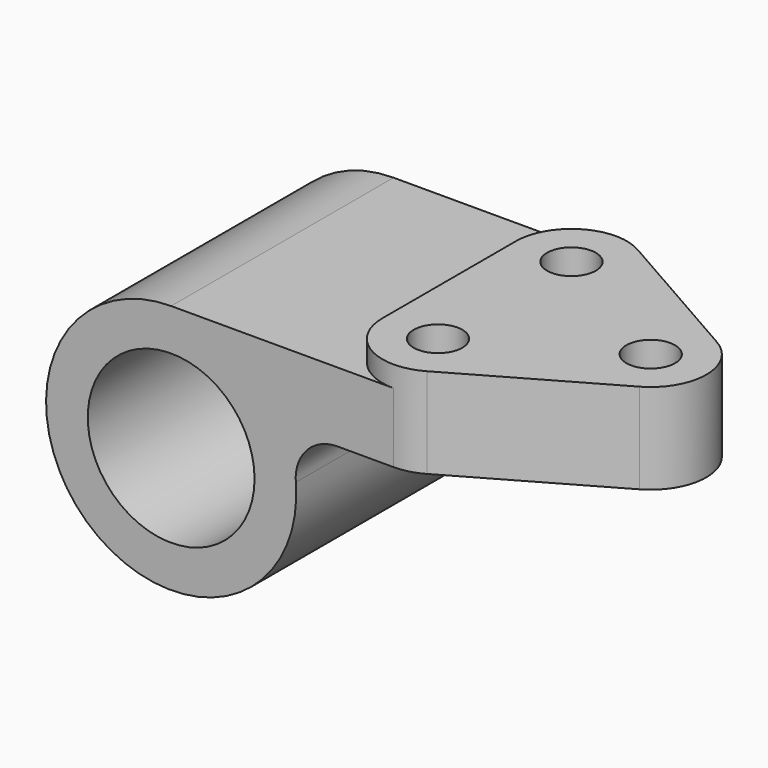
from build123d import *

# Parameters (mm, degrees)
F0_R          = 19.05
F1_DEPTH      = 63.5
F3_R          = 5.5626
F4_DEPTH      = 4.7752
F4_DEPTH_BACK = 15.875
F5_R          = 5.5626
F6_DEPTH      = 61.9262


with BuildPart() as f1:
    # F0 (on Front) → F1 (new body)
    with BuildSketch(Plane.XZ):
        with BuildLine():
            Line((50.8, 28.575), (0, 28.575))
            ThreePointArc((0, 28.575), (-19.345366, -21.030631), (28.475608, 2.38125))
            ThreePointArc((28.475608, 2.38125), (30.957268, 9.623455), (37.967478, 12.7))
            Line((37.967478, 12.7), (50.8, 12.7))
            Line((50.8, 12.7), (50.8, 28.575))
        make_face()
        Circle(F0_R, mode=Mode.SUBTRACT)
    extrude(amount=F1_DEPTH)

    # F3 (on offset) → F4 (join, two sides)
    with BuildSketch(Plane.XY.offset(28.575)) as f4_sk:
        with BuildLine():
            ThreePointArc((57.099155, -1.672279), (44.424628, -1.716165), (38.1, -12.7))
            Line((38.1, -12.7), (38.1, -50.8))
            ThreePointArc((38.1, -50.8), (44.424628, -61.783835), (57.099155, -61.827721))
            Line((57.099155, -61.827721), (90.449355, -42.777721))
            ThreePointArc((90.449355, -42.777721), (96.8502, -31.75), (90.449355, -20.722279))
            Line((90.449355, -20.722279), (57.099155, -1.672279))
        make_face()
        with Locations((50.8, -50.8)):
            Circle(F3_R, mode=Mode.SUBTRACT)
        with Locations((50.8, -12.7)):
            Circle(F3_R, mode=Mode.SUBTRACT)
        with Locations((84.1502, -31.75)):
            Circle(F3_R, mode=Mode.SUBTRACT)
    extrude(amount=F4_DEPTH)
    extrude(f4_sk.sketch, amount=-F4_DEPTH_BACK)

    # F5 (on face) → F6 (cut, through all)
    with BuildSketch(Plane.XY.offset(33.3502)):
        with Locations((50.8, -12.7)):
            Circle(F5_R)
        with Locations((50.8, -50.8)):
            Circle(F5_R)
    extrude(amount=-F6_DEPTH, mode=Mode.SUBTRACT)


solid = f1.part
